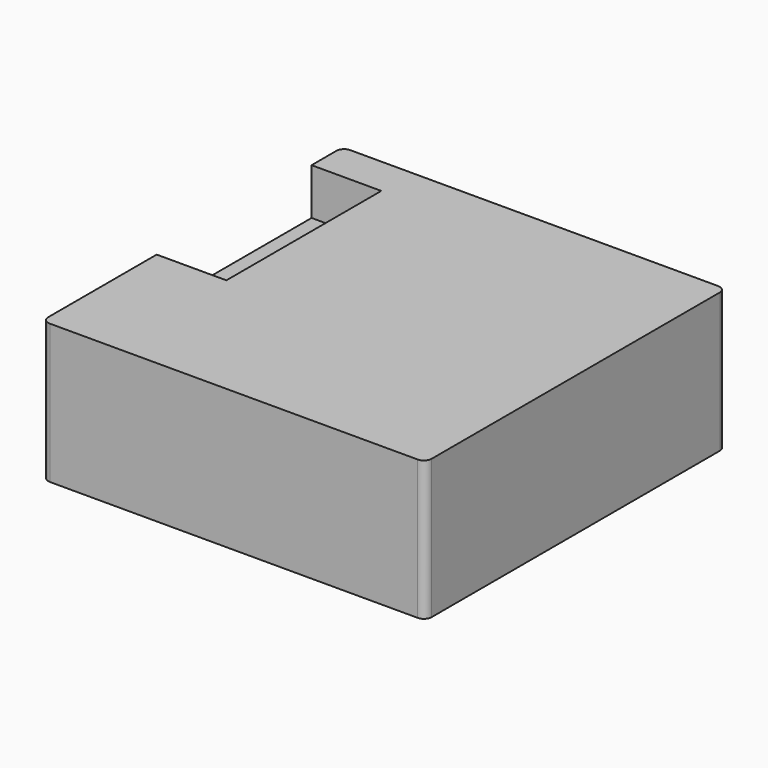
from build123d import *

# Parameters (mm, degrees)
F0_W     = 99
F0_H     = 97
F1_DEPTH = 36
F2_R     = 1.5
F3_DEPTH = 3
F4_W     = 18
F4_H     = 50
F5_DEPTH = 12
F6_R     = 2


with BuildPart() as f1:
    # F0 (on Top) → F1 (new body)
    with BuildSketch(Plane.XY):
        Rectangle(F0_W, F0_H)
    extrude(amount=F1_DEPTH)

    # F2 (on face) → F3 (cut)
    with BuildSketch(Plane(origin=(0, 0, 0), x_dir=(1, 0, 0), z_dir=(0, 0, -1))):
        with Locations((-29, 0)):
            Circle(F2_R)
        with Locations((26, 0)):
            Circle(F2_R)
    extrude(amount=-F3_DEPTH, mode=Mode.SUBTRACT)

    # F4 (on face) → F5 (cut)
    with BuildSketch(Plane.XY.offset(36)):
        with Locations((-40.5, 13.5)):
            Rectangle(F4_W, F4_H)
    extrude(amount=-F5_DEPTH, mode=Mode.SUBTRACT)

    # F6
    f6_edges = [f1.edges().sort_by_distance(p)[0] for p in [
        (-49.5, -48.5, 18),
        (49.5, -48.5, 18),
        (49.5, 48.5, 18),
        (-49.5, 48.5, 18),
    ]]
    fillet(f6_edges, radius=F6_R)


solid = f1.part
